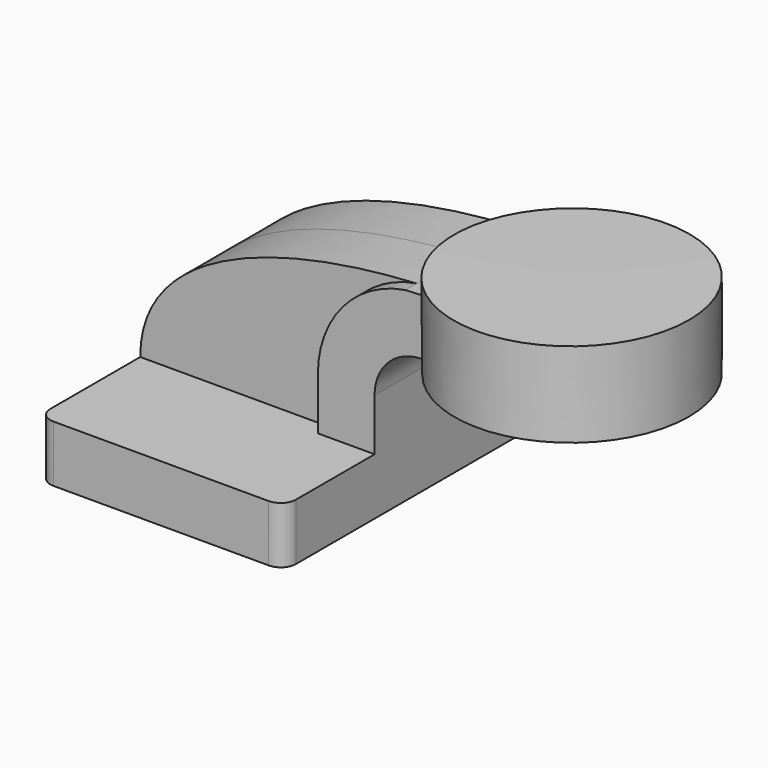
from build123d import *

# Parameters (mm, degrees)
F1_DEPTH = 63.5
F2_DEPTH = 25.4
F3_DEPTH = 20.6375
F5_R     = 5.08


with BuildPart() as f1:
    # F0 (on Front) → F1 (new body, symmetric)
    with BuildSketch(Plane.XZ):
        Polygon((-41.275, -9.525), (41.275, -9.525), (41.275, 9.525), (22.225, 9.525), (-41.275, 9.525), align=None)
    extrude(amount=F1_DEPTH, both=True)

    # F0 (on Front) → F2 (join, symmetric)
    with BuildSketch(Plane.XZ):
        with BuildLine():
            Line((22.225, 9.525), (41.275, 9.525))
            Line((41.275, 9.525), (41.275, 27.0002))
            ThreePointArc((41.275, 27.0002), (45.9246798487, 38.2255201513), (57.15, 42.8752))
            Line((57.15, 42.8752), (75.8391746044, 42.8752))
            Line((75.8391746044, 42.8752), (75.8391746044, 61.9252))
            Line((75.8391746044, 61.9252), (72.1653963261, 61.9252))
            Line((72.1653963261, 61.9252), (64.4478433083, 61.9252))
            add(Edge.make_bspline(
                [(51.5934381261, 61.4803427657), (55.8377621911, 61.7230212557), (60.1301345398, 61.8704467699), (64.4478433083, 61.9252)],
                knots=[109.9989727247, 109.9989727247, 109.9989727247, 109.9989727247, 119.3829591055, 119.3829591055, 119.3829591055, 119.3829591055], degree=3))
            ThreePointArc((51.5934381261, 61.4803427657), (30.5622345011, 49.6463111623), (22.225, 27.0002))
            Line((22.225, 27.0002), (22.225, 9.525))
        make_face()
    extrude(amount=F2_DEPTH, both=True)

    # F0 (on Front) → F3 (join, symmetric)
    with BuildSketch(Plane.XZ):
        with BuildLine():
            add(Edge.make_bspline(
                [(-41.275, 9.525), (-41.3083164925, 42.7027595487), (1.841523734, 58.6356684957), (51.5934381261, 61.4803427657)],
                knots=[0, 0, 0, 0, 109.9989727247, 109.9989727247, 109.9989727247, 109.9989727247], degree=3))
            Line((-41.275, 9.525), (22.225, 9.525))
            Line((22.225, 9.525), (22.225, 27.0002))
            ThreePointArc((22.225, 27.0002), (30.5622345011, 49.6463111623), (51.5934381261, 61.4803427657))
        make_face()
    extrude(amount=F3_DEPTH, both=True)

    # F0 (on Front) → F4 (revolve)
    with BuildSketch(Plane.XZ):
        Polygon((87.1807926523, 66.675), (87.3169004917, 38.1), (126.6391746044, 38.1), (126.6391746044, 66.675), align=None)
    revolve(axis=Axis((87.248846572, 0, 52.3875), (-0.004763125, 0, 0.9999886563)))

    # F5
    f5_edges = [f1.edges().sort_by_distance(p)[0] for p in [
        (41.275, -63.5, 0),
        (-41.275, -63.5, 0),
        (41.275, 63.5, 0),
        (-41.275, 63.5, 0),
    ]]
    fillet(f5_edges, radius=F5_R)


solid = f1.part
